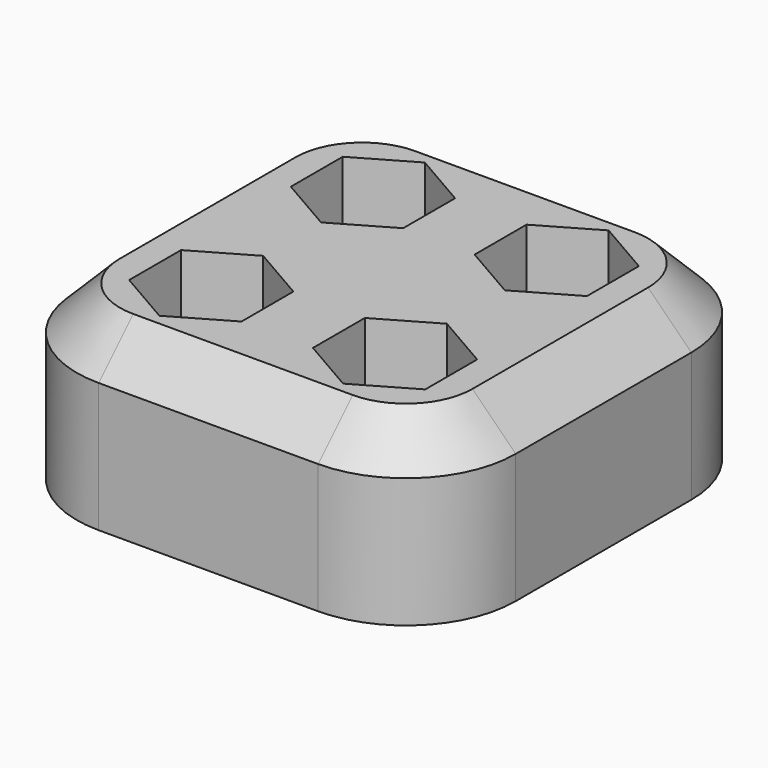
from build123d import *

# Parameters (mm, degrees)
F0_W     = 25.4
F0_H     = 25.4
F1_DEPTH = 10
F3_DEPTH = 7.5
F4_R     = 6.35
F5_SIZE  = 2.5


with BuildPart() as f1:
    # F0 (on Top) → F1 (new body)
    with BuildSketch(Plane.XY):
        Rectangle(F0_W, F0_H)
        Polygon((-2.066667, -3.970835), (-2.066667, -7.723612), (-5.316667, -9.6), (-8.566667, -7.723612), (-8.566667, -3.970835), (-5.316667, -2.094447), align=None, mode=Mode.SUBTRACT)
        Polygon((5.316667, -2.094447), (8.566667, -3.970835), (8.566667, -7.723612), (5.316667, -9.6), (2.066667, -7.723612), (2.066667, -3.970835), align=None, mode=Mode.SUBTRACT)
        Polygon((-5.316667, 9.6), (-2.066667, 7.723612), (-2.066667, 3.970835), (-5.316667, 2.094447), (-8.566667, 3.970835), (-8.566667, 7.723612), align=None, mode=Mode.SUBTRACT)
        Polygon((2.066667, 3.970835), (2.066667, 7.723612), (5.316667, 9.6), (8.566667, 7.723612), (8.566667, 3.970835), (5.316667, 2.094447), align=None, mode=Mode.SUBTRACT)
        Polygon((-5.316667, -9.6), (-2.066667, -7.723612), (-2.066667, -3.970835), (-5.316667, -2.094447), (-8.566667, -3.970835), (-8.566667, -7.723612), align=None)
        Polygon((5.316667, 9.6), (2.066667, 7.723612), (2.066667, 3.970835), (5.316667, 2.094447), (8.566667, 3.970835), (8.566667, 7.723612), align=None)
        Polygon((8.566667, -7.723612), (8.566667, -3.970835), (5.316667, -2.094447), (2.066667, -3.970835), (2.066667, -7.723612), (5.316667, -9.6), align=None)
        Polygon((-2.066667, 3.970835), (-2.066667, 7.723612), (-5.316667, 9.6), (-8.566667, 7.723612), (-8.566667, 3.970835), (-5.316667, 2.094447), align=None)
    extrude(amount=F1_DEPTH)

    # F2 (on face) → F3 (cut)
    with BuildSketch(Plane.XY.offset(10)):
        Polygon((-5.316667, 9.6), (-8.566667, 7.723612), (-8.566667, 3.970835), (-5.316667, 2.094447), (-2.066667, 3.970835), (-2.066667, 7.723612), align=None)
        Polygon((2.066667, 3.970835), (5.316667, 2.094447), (8.566667, 3.970835), (8.566667, 7.723612), (5.316667, 9.6), (2.066667, 7.723612), align=None)
        Polygon((5.316667, -2.094447), (2.066667, -3.970835), (2.066667, -7.723612), (5.316667, -9.6), (8.566667, -7.723612), (8.566667, -3.970835), align=None)
        Polygon((-5.316667, -2.094447), (-8.566667, -3.970835), (-8.566667, -7.723612), (-5.316667, -9.6), (-2.066667, -7.723612), (-2.066667, -3.970835), align=None)
    extrude(amount=-F3_DEPTH, mode=Mode.SUBTRACT)

    # F4
    f4_edges = [f1.edges().sort_by_distance(p)[0] for p in [
        (-12.7, -12.7, 5),
        (12.7, -12.7, 5),
        (12.7, 12.7, 5),
        (-12.7, 12.7, 5),
    ]]
    fillet(f4_edges, radius=F4_R)

    # F5
    f5_edges = [f1.edges().sort_by_distance(p)[0] for p in [
        (-12.7, 0, 10),
        (0, -12.7, 10),
        (12.7, 0, 10),
        (0, 12.7, 10),
    ]]
    chamfer(f5_edges, length=F5_SIZE)


solid = f1.part
